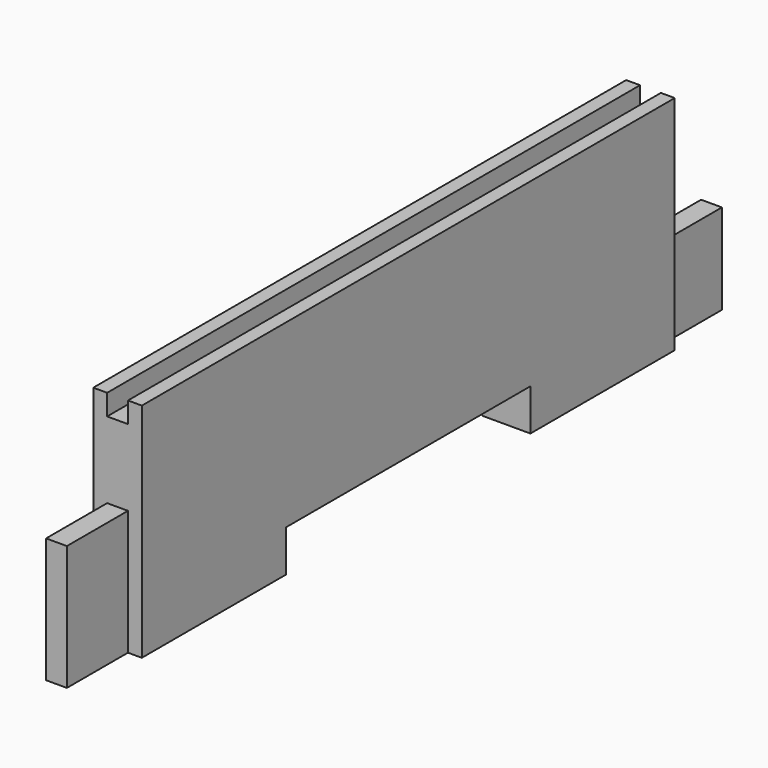
from build123d import *

# Parameters (mm, degrees)
F0_W     = 374.65
F0_H     = 101.6
F1_DEPTH = 22.225
F2_W     = 9.525
F2_H     = 34.925
F2_H_2   = 304.8
F3_DEPTH = 9.525
F2_W_2   = 6.35
F4_DEPTH = 101.6
F5_W     = 34.925
F5_H     = 50.8
F6_DEPTH = 9.525
F8_DEPTH = 22.225
F9_DEPTH = 15.875


with BuildPart() as f1:
    # F0 (on Right) → F1 (new body)
    with BuildSketch(Plane.YZ):
        with Locations((187.325, 50.8)):
            Rectangle(F0_W, F0_H)
    extrude(amount=F1_DEPTH)

    # F2 (on face) → F3 (cut)
    with BuildSketch(Plane.XY.offset(101.6)):
        with Locations((11.1125, 357.1875)):
            Rectangle(F2_W, F2_H)
        with Locations((11.1125, 187.325)):
            Rectangle(F2_W, F2_H_2)
        with Locations((11.1125, 17.4625)):
            Rectangle(F2_W, F2_H)
    extrude(amount=-F3_DEPTH, mode=Mode.SUBTRACT)

    # F2 (on face) → F4 (cut, through all)
    with BuildSketch(Plane.XY.offset(101.6)):
        with Locations((19.05, 357.1875)):
            Rectangle(F2_W_2, F2_H)
        with Locations((3.175, 357.1875)):
            Rectangle(F2_W_2, F2_H)
        with Locations((3.175, 17.4625)):
            Rectangle(F2_W_2, F2_H)
        with Locations((19.05, 17.4625)):
            Rectangle(F2_W_2, F2_H)
    extrude(amount=-F4_DEPTH, mode=Mode.SUBTRACT)

    # F5 (on face) → F6 (cut, through all)
    with BuildSketch(Plane(origin=(6.35, 0, 0), x_dir=(0, -1, 0), z_dir=(-1, 0, 0))):
        with Locations((-357.1875, 66.675)):
            Rectangle(F5_W, F5_H)
        with Locations((-17.4625, 66.675)):
            Rectangle(F5_W, F5_H)
    extrude(amount=-F6_DEPTH, mode=Mode.SUBTRACT)

    # F7 (on Right) → F8 (cut, through all)
    with BuildSketch(Plane.YZ):
        Polygon((257.175, 0), (257.175, 19.05), (212.725, 19.05), (161.925, 19.05), (117.475, 19.05), (117.475, 0), align=None)
    extrude(amount=F8_DEPTH, mode=Mode.SUBTRACT)

    # F9 (add): a face of the model
    f9_faces = [f1.faces().sort_by_distance(p)[0] for p in [
        (11.1125, 17.4625, 41.275),
    ]]
    extrude(f9_faces, amount=F9_DEPTH)


solid = f1.part
